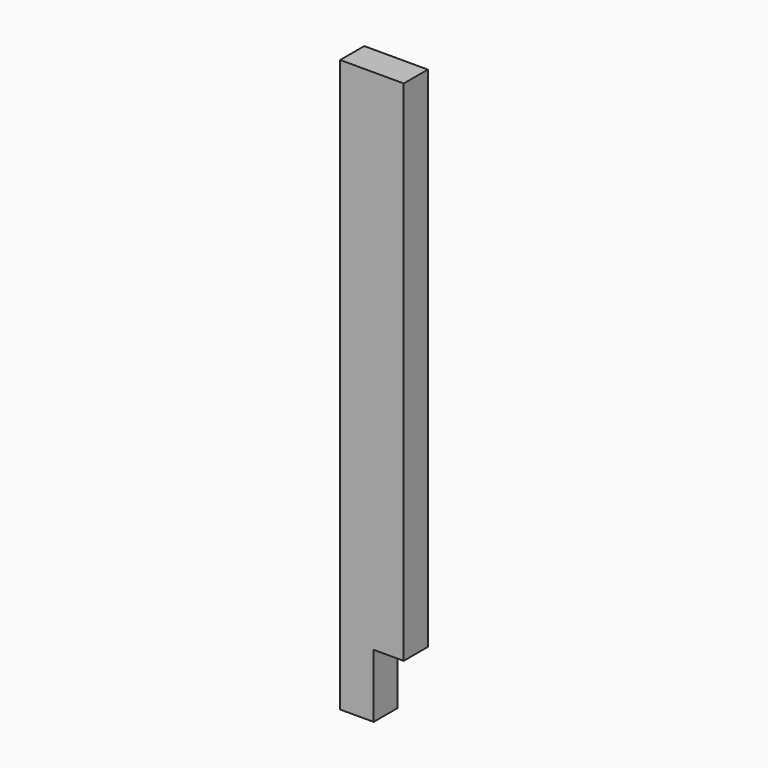
from build123d import *

# Parameters (mm, degrees)
F0_W     = 95
F0_H     = 45
F1_DEPTH = 855
F2_W     = 45
F2_H     = 95
F3_DEPTH = 45.001


with BuildPart() as f1:
    # F0 (on Top) → F1 (new body)
    with BuildSketch(Plane.XY):
        Rectangle(F0_W, F0_H)
    extrude(amount=F1_DEPTH)

    # F2 (on face) → F3 (cut, through all)
    with BuildSketch(Plane.XZ.offset(22.5)):
        with Locations((25, 47.5)):
            Rectangle(F2_W, F2_H)
    extrude(amount=-F3_DEPTH, mode=Mode.SUBTRACT)


solid = f1.part
